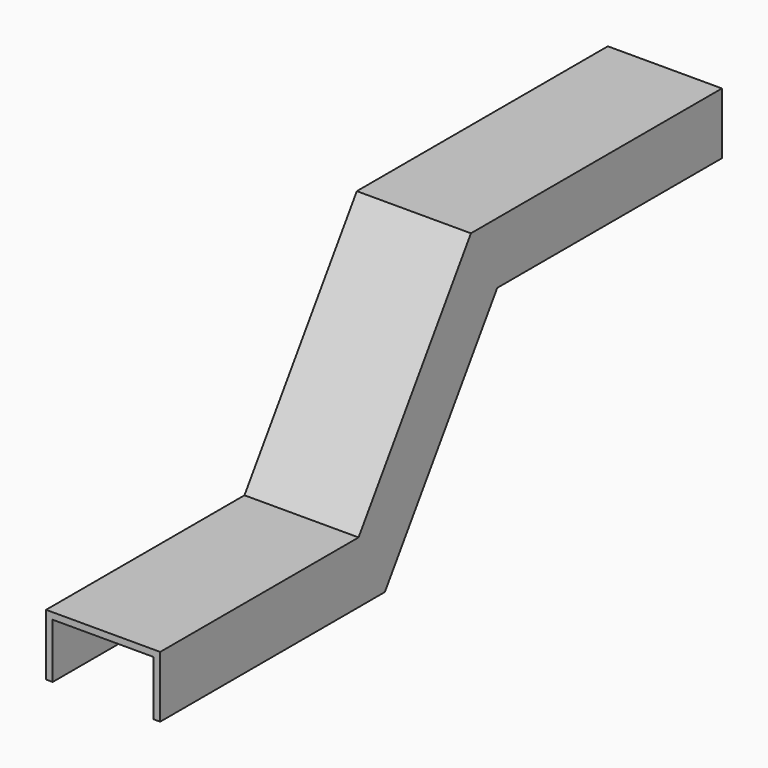
from build123d import *


with BuildPart() as f2:
    # F2: sweep along a path in F1
    with BuildLine(Plane.YZ) as f2_path:
        Line((0, 0), (-203.2, 0))
        Line((-203.2, 0), (-304.8, -152.4))
        Line((-304.8, -152.4), (-508, -152.4))
    # F0 (on Front) → F2 (sweep)
    with BuildSketch(Plane.XZ):
        Polygon((-41.275, 44.45), (-41.275, 0), (-36.5125, 0), (-36.5125, 39.6875), (36.5125, 39.6875), (36.5125, 0), (41.275, 0), (41.275, 44.45), align=None)
    sweep(path=f2_path.line, transition=Transition.RIGHT)


solid = f2.part
